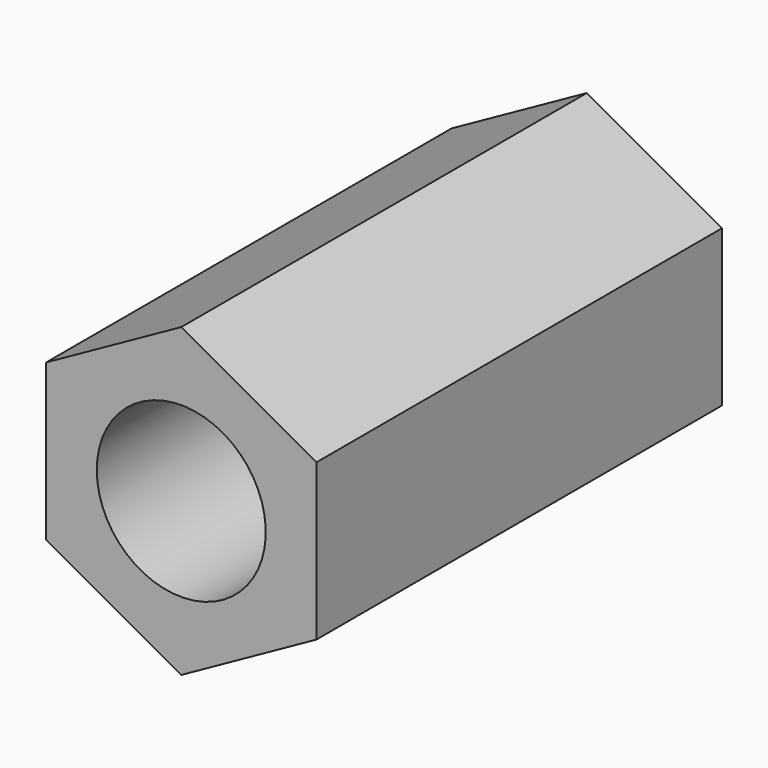
from build123d import *

# Parameters (mm, degrees)
F1_DEPTH = 12
F3_D     = 8


with BuildPart() as f1:
    # F0 (on Front) → F1 (new body, symmetric)
    with BuildSketch(Plane.XZ):
        Polygon((0, 7.25), (-6.4, 3.6950417228), (-6.4, -3.6950417228), (0, -7.25), (6.4, -3.6950417228), (6.4, 3.6950417228), align=None)
    extrude(amount=F1_DEPTH, both=True)

    # F3 (through all)
    with Locations(Plane.XZ.offset(12)):
        with Locations((0, 0)):
            Hole(F3_D / 2)


solid = f1.part
